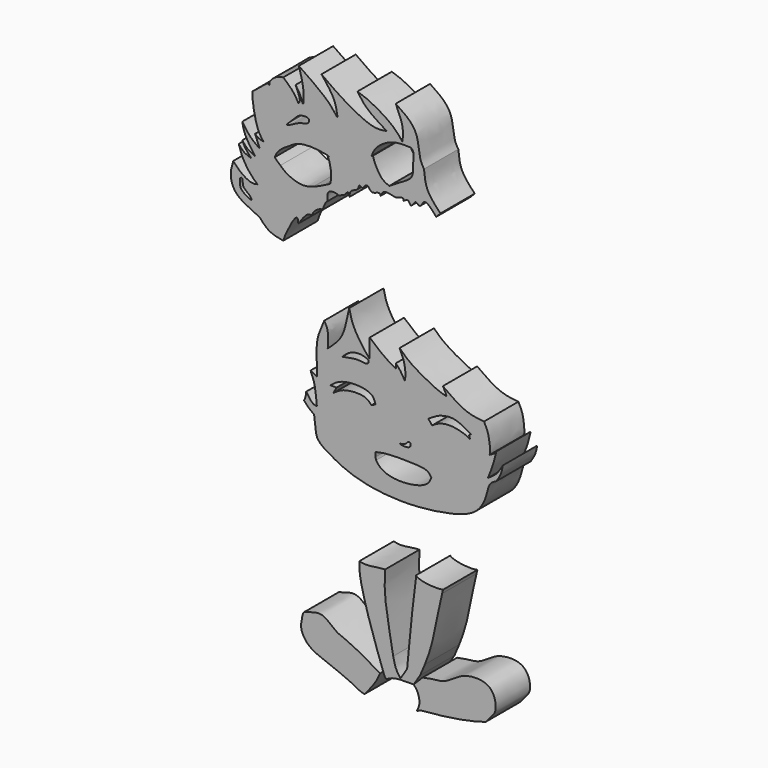
from build123d import *

# Parameters (mm, degrees)
F1_DEPTH = 8.636


with BuildPart() as f1:
    # F0 (on Front) → F1 (new body)
    with BuildSketch(Plane.XZ):
        with BuildLine():
            add(Edge.make_bspline(
                [(-18.4330398864, -7.1589284934), (-18.3447757655, -6.9759751124), (-18.1023853604, -6.4037237485), (-18.0444646272, -5.8298438117), (-18.0050712079, -5.4395329207)],
                knots=[0.2964626581, 0.2964626581, 0.2964626581, 0.2964626581, 0.5215056858, 1, 1, 1, 1], degree=3))
            add(Edge.make_bspline(
                [(-18.4330398864, -7.1589284934), (-18.1841600267, -7.4510223109), (-17.6552826772, -8.0759320914), (-16.8501844888, -8.6759563293), (-16.420789063, -8.9964652434)],
                knots=[0, 0, 0, 0, 0.4663036546, 1, 1, 1, 1], degree=3))
            add(Edge.make_bspline(
                [(-16.420789063, -8.9964652434), (-16.3187006772, -9.6921039668), (-16.1192058915, -11.0514779745), (-16.0141444379, -13.1041762653), (-14.8609629348, -13.9700183495), (-14.2729077488, -14.4115472212)],
                knots=[0, 0, 0, 0, 0.3393295034, 0.6630966498, 1, 1, 1, 1], degree=3))
            add(Edge.make_bspline(
                [(-14.2729077488, -14.4115472212), (-13.0963803768, -15.1027303133), (-11.9198530048, -15.7939134054), (-10.5908111519, -16.3956737654)],
                knots=[0, 0, 0, 0, 0.1082167815, 0.1082167815, 0.1082167815, 0.1082167815], degree=3))
            add(Edge.make_bspline(
                [(-10.5908111519, -16.3956737654), (-10.0073780041, -16.6598392168), (-7.6050352071, -17.6278445774), (-4.5527555949, -18.2147771024), (-2.2045963799, -18.4394805093)],
                knots=[0.1082167815, 0.1082167815, 0.1082167815, 0.1082167815, 0.1557226275, 0.2944452567, 0.2944452567, 0.2944452567, 0.2944452567], degree=3))
            add(Edge.make_bspline(
                [(-2.2045963799, -18.4394805093), (-1.3019078322, -18.5258618716), (0.9869008546, -18.6635786174), (3.2427891616, -18.6038563423), (4.5732665872, -18.5092306772)],
                knots=[0.2944452567, 0.2944452567, 0.2944452567, 0.2944452567, 0.3477735522, 0.4280323338, 0.4280323338, 0.4280323338, 0.4280323338], degree=3))
            add(Edge.make_bspline(
                [(4.5732665872, -18.5092306772), (4.6281273835, -18.5053288904), (4.682945921, -18.5013272237), (4.7377212904, -18.4972265552)],
                knots=[0.4280323338, 0.4280323338, 0.4280323338, 0.4280323338, 0.4313417177, 0.4313417177, 0.4313417177, 0.4313417177], degree=3))
            add(Edge.make_bspline(
                [(4.7377212904, -18.4972265552), (6.5623558523, -18.3606282695), (9.7582413002, -17.9173201875), (12.6903836285, -17.2235688297), (13.8276492638, -16.7859301138)],
                knots=[0.4313417177, 0.4313417177, 0.4313417177, 0.4313417177, 0.5415813461, 0.6296343765, 0.6296343765, 0.6296343765, 0.6296343765], degree=3))
            add(Edge.make_bspline(
                [(13.8276492638, -16.7859301138), (14.7898991916, -16.4156403506), (17.0891542402, -15.1546132726), (18.4126125947, -11.8249988228), (18.731444639, -9.6352540793), (19.7651718001, -9.1076622689), (20.2455148101, -8.8625056669)],
                knots=[0.6296343765, 0.6296343765, 0.6296343765, 0.6296343765, 0.7041367791, 0.8325264109, 0.9221798837, 1, 1, 1, 1], degree=3))
            add(Edge.make_bspline(
                [(20.2455148101, -8.8625056669), (20.5707524824, -8.3797265979), (21.224439266, -7.409401437), (21.4338524446, -6.2409220409), (21.5390734375, -5.6538120843)],
                knots=[0, 0, 0, 0, 0.4975435951, 1, 1, 1, 1], degree=3))
            add(Edge.make_bspline(
                [(18.5442902148, -8.8625056669), (19.1478463262, -8.4617461117), (20.3724621261, -7.6486046753), (21.1465151236, -6.3250488608), (21.5390734375, -5.6538120843)],
                knots=[0, 0, 0, 0, 0.4928534414, 1, 1, 1, 1], degree=3))
            add(Edge.make_bspline(
                [(20.2455148101, -3.5931265447), (20.0773123663, -4.3287265851), (19.712977018, -5.9220749981), (18.9532659882, -7.8335174867), (18.5442902148, -8.8625056669)],
                knots=[0, 0, 0, 0, 0.4616692962, 1, 1, 1, 1], degree=3))
            add(Edge.make_bspline(
                [(20.2455148101, -3.5931265447), (20.0121775324, -4.05283358), (19.4500589458, -4.3458940099), (18.8879403592, -4.6389544397)],
                knots=[0.4998641853, 0.4998641853, 0.4998641853, 0.4998641853, 1, 1, 1, 1], degree=3))
            Line((18.8879403592, -4.6389544397), (18.8843956508, -4.6411745258))
            add(Edge.make_bspline(
                [(17.764126882, 0.8990443312), (18.0813559885, 0.3023998655), (18.7704372558, -0.9936240998), (19.0452295332, -3.9517865462), (18.9189965282, -4.5276502492), (18.8843956508, -4.6411745258)],
                knots=[0, 0, 0, 0, 0.3707934573, 0.8054331089, 0.9380549572, 0.9380549572, 0.9380549572, 0.9380549572], degree=3))
            add(Edge.make_bspline(
                [(9.4706760719, 4.4652256183), (10.0343443338, 4.051640707), (11.305647942, 3.1188367413), (14.3873166326, 1.2226289698), (16.6467019141, 1.0061221732), (17.764126882, 0.8990443312)],
                knots=[0, 0, 0, 0, 0.2870388331, 0.6473905466, 1, 1, 1, 1], degree=3))
            add(Edge.make_bspline(
                [(9.4706760719, 4.4652256183), (9.7976174178, 4.0288565413), (10.0157268332, 3.4584419435), (10.2338362485, 2.8880273458)],
                knots=[0.4755673873, 0.4755673873, 0.4755673873, 0.4755673873, 1, 1, 1, 1], degree=3))
            add(Edge.make_bspline(
                [(0.7706487086, 8.3827814087), (1.4259010838, 7.7394897403), (2.9808799505, 6.2128948168), (8.2537663963, 3.3848211667), (9.7029290704, 3.0212304271), (10.2338362485, 2.8880273458)],
                knots=[0, 0, 0, 0, 0.3157579297, 0.7493248804, 1, 1, 1, 1], degree=3))
            add(Edge.make_bspline(
                [(0.7706487086, 8.3827814087), (1.046336286, 7.8160728257), (1.6141491875, 6.6488659174), (2.0410112224, 4.4780649121), (1.9027120641, 3.3891148912), (1.8390727928, 2.8880273458)],
                knots=[0, 0, 0, 0, 0.3375143575, 0.6951528554, 1, 1, 1, 1], degree=3))
            add(Edge.make_bspline(
                [(0, 5.4318951443), (0.2954681031, 5.1367856095), (0.9431074393, 4.4899322225), (1.5234797864, 3.4522790482), (1.8390727928, 2.8880273458)],
                knots=[0, 0, 0, 0, 0.4562232196, 1, 1, 1, 1], degree=3))
            add(Edge.make_bspline(
                [(0, 5.4318951443), (0.1058486689, 5.145685687), (0.0529243345, 4.8054556527), (0, 4.4652256183)],
                knots=[0.5048603434, 0.5048603434, 0.5048603434, 0.5048603434, 1, 1, 1, 1], degree=3))
            add(Edge.make_bspline(
                [(-5.232878495, 8.2973521203), (-4.3802456485, 7.5448368917), (-2.7065009352, 6.0676261666), (-0.8907686531, 4.9926106857), (0, 4.4652256183)],
                knots=[0, 0, 0, 0, 0.5094163045, 1, 1, 1, 1], degree=3))
            add(Edge.make_bspline(
                [(-5.232878495, 8.2973521203), (-5.232878495, 7.0199766196), (-5.232878495, 5.742601119), (-5.232878495, 4.4652256183)],
                knots=[0, 0, 0, 0, 3.8321265019, 3.8321265019, 3.8321265019, 3.8321265019], degree=3))
            add(Edge.make_bspline(
                [(-9.3559222296, 12.1640302241), (-9.1415522268, 11.183021882), (-8.6885213887, 9.1098445463), (-6.4131342354, 5.8472901656), (-5.5715020805, 4.8617495549), (-5.232878495, 4.4652256183)],
                knots=[0, 0, 0, 0, 0.3493094953, 0.7382001739, 1, 1, 1, 1], degree=3))
            add(Edge.make_bspline(
                [(-9.3559222296, 12.1640302241), (-9.545618552, 11.2439649612), (-9.9359418079, 9.3508187766), (-10.8175540538, 6.1497408327), (-12.7002842733, 4.4839188488), (-13.6804971844, 3.6166356876)],
                knots=[0, 0, 0, 0, 0.3118868084, 0.6417450425, 1, 1, 1, 1], degree=3))
            add(Edge.make_bspline(
                [(-14.39278014, 8.2973521203), (-14.1295459057, 7.8796531901), (-13.487271247, 6.8604945747), (-13.6087852881, 4.8205282663), (-13.6804971844, 3.6166356876)],
                knots=[0, 0, 0, 0, 0.4098468324, 1, 1, 1, 1], degree=3))
            add(Edge.make_bspline(
                [(-14.39278014, 8.2973521203), (-14.6711141427, 7.6682392119), (-15.2639142795, 6.3283446443), (-16.074859645, 3.80515167), (-15.8293485486, 0.0230459236), (-15.8566308085, -1.4368247328), (-15.8682223409, -2.0570863275)],
                knots=[0, 0, 0, 0, 0.2241880166, 0.4774791641, 0.7779943001, 1, 1, 1, 1], degree=3))
            add(Edge.make_bspline(
                [(-17.1401575208, -1.4202223392), (-16.7161791275, -1.6325103353), (-16.2922007342, -1.8447983314), (-15.8682223409, -2.0570863275)],
                knots=[0, 0, 0, 0, 1.42246787, 1.42246787, 1.42246787, 1.42246787], degree=3))
            add(Edge.make_bspline(
                [(-17.1401575208, -1.4202223392), (-16.8586679279, -2.0570863275), (-16.2066038698, -3.5323668604), (-15.9908419678, -5.9487440933), (-15.8682223409, -7.3219952174)],
                knots=[0, 0, 0, 0, 0.4316900915, 1, 1, 1, 1], degree=3))
            add(Edge.make_bspline(
                [(-18.0050712079, -5.4395329207), (-17.5358533235, -6.1386457618), (-16.7835088517, -7.2596040599), (-16.1184871301, -7.3049357396), (-15.8682223409, -7.3219952174)],
                knots=[0, 0, 0, 0, 0.6236742635, 1, 1, 1, 1], degree=3))
        make_face()
        with BuildLine():
            Line((-11.9033038869, -2.7368646115), (-13.1420567632, -2.7368646115))
            add(Edge.make_bspline(
                [(-13.1420567632, -2.7368646115), (-12.5702592869, -2.2616440846), (-11.2540416732, -1.1677364447), (-7.2536149387, -0.7599784637), (-4.4979536295, -1.5900657613), (-4.2090467195, -2.7151476621), (-4.0858881548, -3.1947605312)],
                knots=[0, 0, 0, 0, 0.24118308, 0.5551780677, 0.8103761842, 1, 1, 1, 1], degree=3))
            Line((-4.0858881548, -3.1947605312), (-4.899926018, -3.6017792299))
            add(Edge.make_bspline(
                [(-12.5315282494, -3.9070434868), (-11.9033038869, -3.4410703996), (-10.4812583274, -2.3862960241), (-6.0893563876, -2.1846491739), (-5.2338552315, -3.2039239733), (-4.899926018, -3.6017792299)],
                knots=[0, 0, 0, 0, 0.3254578724, 0.7367048303, 1, 1, 1, 1], degree=3))
            Line((-12.5315282494, -3.9070434868), (-11.9033038869, -2.7368646115))
        make_face(mode=Mode.SUBTRACT)
        with BuildLine():
            add(Edge.make_bspline(
                [(-10.7559990138, 3.1001628377), (-10.3593019709, 3.1560794666), (-9.4696864137, 3.2814756699), (-7.6619811728, 3.7517600431), (-5.6524071004, 3.1869879272), (-5.3134453705, 4.1999914397), (-5.7237460498, 4.3673032943), (-5.9226509184, 4.4484124519)],
                knots=[0, 0, 0, 0, 0.2068397339, 0.4638498028, 0.7146694591, 0.8616779436, 1, 1, 1, 1], degree=3))
            add(Edge.make_bspline(
                [(-10.7559990138, 3.1001628377), (-10.3044980963, 3.5359459066), (-9.392131369, 4.416550922), (-7.3696725363, 4.8774805902), (-6.3816343974, 4.5845093729), (-5.9226509184, 4.4484124519)],
                knots=[0, 0, 0, 0, 0.3440812606, 0.6952993481, 1, 1, 1, 1], degree=3))
        make_face(mode=Mode.SUBTRACT)
        with BuildLine():
            add(Edge.make_bspline(
                [(-4.0858881548, -11.5895234048), (-4.1060696555, -11.8845037813), (-4.1262511562, -12.1794841579), (-4.0858881548, -12.4757638488)],
                knots=[0, 0, 0, 0, 0.0916530083, 0.0916530083, 0.0916530083, 0.0916530083], degree=3))
            add(Edge.make_bspline(
                [(-4.0858881548, -11.5895234048), (-3.3781628092, -11.4286120689), (-1.6823748374, -11.0430507637), (2.7488868354, -11.1170576545), (5.8892871255, -11.2162336731), (6.5889554667, -11.7457057839), (6.68474054, -11.8380875792)],
                knots=[0, 0, 0, 0, 0.2311406086, 0.553838387, 0.8339957191, 0.8869285145, 0.8869285145, 0.8869285145, 0.8869285145], degree=3))
            add(Edge.make_bspline(
                [(6.68474054, -11.8380875792), (6.8893501861, -12.0354273712), (7.0236783638, -12.2703717733), (7.1580065414, -12.5053161755)],
                knots=[0.8869285145, 0.8869285145, 0.8869285145, 0.8869285145, 1, 1, 1, 1], degree=3))
            add(Edge.make_bspline(
                [(6.9665403188, -12.9535870845), (7.0358278571, -12.8059797145), (7.0969171993, -12.655647945), (7.1580065414, -12.5053161755)],
                knots=[0.9498150812, 0.9498150812, 0.9498150812, 0.9498150812, 1, 1, 1, 1], degree=3))
            add(Edge.make_bspline(
                [(-3.933256492, -13.0140893161), (-3.6299871589, -13.6816020951), (-1.7581083299, -15.2891896966), (3.4358052937, -15.2267788752), (6.2899284813, -14.1428552989), (6.8293391478, -13.2458749119), (6.9665403188, -12.9535870845)],
                knots=[0.1469866764, 0.1469866764, 0.1469866764, 0.1469866764, 0.352065497, 0.6332827206, 0.8504403623, 0.9498150812, 0.9498150812, 0.9498150812, 0.9498150812], degree=3))
            add(Edge.make_bspline(
                [(-4.0858881548, -12.4757638488), (-4.0615198012, -12.6546367781), (-4.0150835894, -12.8339832943), (-3.933256492, -13.0140893161)],
                knots=[0.0916530083, 0.0916530083, 0.0916530083, 0.0916530083, 0.1469866764, 0.1469866764, 0.1469866764, 0.1469866764], degree=3))
        make_face(mode=Mode.SUBTRACT)
        with BuildLine():
            add(Edge.make_bspline(
                [(0.8535532979, -8.5543373227), (0.8250785768, -8.4638055758), (2.1333939515, -8.379418986), (2.321706787, -7.6001280671), (3.0690326007, -7.5686537332), (3.0415733177, -8.9948874437), (0.8903769668, -8.6714134852), (0.8535532979, -8.5543373227)],
                knots=[0, 0, 0, 0, 0.2144360216, 0.3941398724, 0.5320641402, 0.7226901353, 1, 1, 1, 1], degree=3))
        make_face(mode=Mode.SUBTRACT)
        with BuildLine():
            Line((7.3106386699, -3.1947605312), (6.547477562, -2.2280910052))
            add(Edge.make_bspline(
                [(6.547477562, -2.2280910052), (7.1955297049, -1.8213002231), (8.3484812599, -1.0975774952), (9.6001927335, -0.7161177974), (11.9752591058, -0.3290183632), (14.0004816251, -1.542093543), (15.1457507163, -2.2280910052)],
                knots=[0, 0, 0, 0, 0.2428297132, 0.4320190875, 0.6788051795, 1, 1, 1, 1], degree=3))
            Line((15.1457507163, -2.2280910052), (14.7451404482, -2.4982849136))
            Line((14.7451404482, -2.4982849136), (14.9740884081, -3.1947605312))
            add(Edge.make_bspline(
                [(7.3106386699, -3.1947605312), (7.746110525, -2.9034915254), (8.7449084648, -2.2354371392), (11.3914677573, -1.8026629182), (14.4470899588, -2.742335846), (14.8501397521, -3.0883514294), (14.9740884081, -3.1947605312)],
                knots=[0, 0, 0, 0, 0.2335863432, 0.5357534719, 0.8572317015, 1, 1, 1, 1], degree=3))
        make_face(mode=Mode.SUBTRACT)
    extrude(amount=F1_DEPTH)


with BuildPart() as f1b:
    # F0 (on Front) → F1, piece 2 (new body)
    with BuildSketch(Plane.XZ):
        with BuildLine():
            add(Edge.make_bspline(
                [(-32.7052474022, 30.6194592267), (-32.9437435672, 29.796959276), (-33.4410033525, 28.0820631527), (-32.5416588893, 24.8873001119), (-29.1255932511, 23.2013356898), (-27.8898295194, 22.6308582522), (-27.3706596345, 22.3911888897)],
                knots=[0, 0, 0, 0, 0.2419037348, 0.5043645008, 0.7917732828, 1, 1, 1, 1], degree=3))
            add(Edge.make_bspline(
                [(-27.3706596345, 22.3911888897), (-26.7575944473, 21.6944745249), (-25.5144528092, 20.2817134435), (-23.5834678664, 19.9594976881), (-22.6047635078, 19.7961851954)],
                knots=[0, 0, 0, 0, 0.4931579544, 1, 1, 1, 1], degree=3))
            add(Edge.make_bspline(
                [(-22.6047635078, 19.7961851954), (-22.4382272456, 20.3439747181), (-22.0578617276, 21.5951151163), (-19.7761646606, 25.6953442767), (-19.6479114574, 24.2903518892), (-19.6032002568, 23.800548166)],
                knots=[0, 0, 0, 0, 0.3365689992, 0.7687169147, 1, 1, 1, 1], degree=3))
            add(Edge.make_bspline(
                [(-19.6032002568, 23.800548166), (-18.8877456516, 24.8315862122), (-17.8954817943, 26.2615326843), (-17.0748664805, 26.1642791676), (-16.8503796017, 26.0976623628)],
                knots=[0, 0, 0, 0, 0.6331543829, 0.8781216944, 0.8781216944, 0.8781216944, 0.8781216944], degree=3))
            Line((-16.8503796017, 26.0976623628), (-16.8503796017, 26.1078629228))
            add(Edge.make_bspline(
                [(-14.7267151624, 27.7985651046), (-14.9838982099, 28.043324273), (-16.5164380176, 27.1374249317), (-16.746274376, 26.4288256014), (-16.8503796017, 26.1078629228)],
                knots=[0.6486517808, 0.6486517808, 0.6486517808, 0.6486517808, 0.840855529, 1, 1, 1, 1], degree=3))
            add(Edge.make_bspline(
                [(-13.7615559241, 29.634764418), (-14.1033451356, 29.5428302764), (-14.415030149, 28.6706976905), (-14.7267151624, 27.7985651046)],
                knots=[0.80203745, 0.80203745, 0.80203745, 0.80203745, 1, 1, 1, 1], degree=3))
            add(Edge.make_bspline(
                [(-11.442072929, 31.4394749151), (-11.9715820585, 31.7062565928), (-13.8529844898, 31.90931208), (-13.7941079316, 30.4445889185), (-13.7615559241, 29.634764418)],
                knots=[0.6642981839, 0.6642981839, 0.6642981839, 0.6642981839, 0.8143952641, 1, 1, 1, 1], degree=3))
            Line((-11.442072929, 31.4394749151), (-10.4278187127, 31.8416898105))
            Line((-10.4278187127, 31.8416898105), (-9.6154231578, 32.6536148787))
            Line((-9.6154231578, 32.6536148787), (-9.2731625773, 31.8953618407))
            add(Edge.make_bspline(
                [(-9.2731625773, 31.8953618407), (-9.2707773222, 32.3305626831), (-9.2656749472, 33.2615146554), (-7.4052768294, 33.5223676125), (-7.5024119976, 34.7654217232), (-6.9216652211, 34.457884325), (-6.6730589208, 34.2359130844)],
                knots=[0, 0, 0, 0, 0.1376872521, 0.2945311829, 0.4080807921, 0.4946014193, 0.4946014193, 0.4946014193, 0.4946014193], degree=3))
            add(Edge.make_bspline(
                [(-3.0237854281, 34.1091325558), (-3.0833782998, 34.3169965622), (-3.3880762258, 34.7880337699), (-4.9399989149, 33.6075278354), (-5.6711981945, 35.5988543848), (-6.339931794, 34.6891217745), (-6.6730589208, 34.2359130844)],
                knots=[0.5698102075, 0.5698102075, 0.5698102075, 0.5698102075, 0.6267960603, 0.7580479168, 0.8795187699, 1, 1, 1, 1], degree=3))
            add(Edge.make_bspline(
                [(-3.0237854281, 34.1091325558), (-2.8605049358, 34.5047356016), (-2.4867903229, 35.4110204781), (-0.9424695462, 34.9767185739), (-0.1280658918, 34.8201655375), (0, 34.7914071205)],
                knots=[0, 0, 0, 0, 0.1286180339, 0.2945515931, 0.3297719384, 0.3297719384, 0.3297719384, 0.3297719384], degree=3))
            add(Edge.make_bspline(
                [(1.5734132775, 34.7069428762), (1.5729585439, 34.8669602376), (1.5701850288, 35.41126972), (0.6650982577, 35.0539682375), (0, 34.7914071205)],
                knots=[0.7751394027, 0.7751394027, 0.7751394027, 0.7751394027, 0.8347623717, 1, 1, 1, 1], degree=3))
            add(Edge.make_bspline(
                [(1.5734132775, 34.7069428762), (1.9403689396, 34.9519525008), (2.6310672862, 35.4133129969), (2.939391131, 33.959456186), (3.5517581518, 34.7471280498), (3.8958386127, 35.2198470936)],
                knots=[0, 0, 0, 0, 0.3291534336, 0.6198053243, 0.9684432239, 0.9684432239, 0.9684432239, 0.9684432239], degree=3))
            add(Edge.make_bspline(
                [(3.8958386127, 35.2198470936), (3.9137519726, 35.3004503454), (3.941505609, 35.3480971277), (3.989437595, 35.3489182889)],
                knots=[0.5711886312, 0.5711886312, 0.5711886312, 0.5711886312, 0.6017339028, 0.6017339028, 0.6017339028, 0.6017339028], degree=3))
            add(Edge.make_bspline(
                [(3.989437595, 35.3489182889), (4.1457844496, 35.3515967923), (4.9635659438, 34.2594291564), (5.6929743724, 36.8403270348), (7.2194293889, 35.0723784968), (8.1328125671, 34.014493227)],
                knots=[0.6017339028, 0.6017339028, 0.6017339028, 0.6017339028, 0.7013679373, 0.8213313102, 1, 1, 1, 1], degree=3))
            add(Edge.make_bspline(
                [(8.9884642512, 34.9012799561), (8.7032470231, 34.6056843797), (8.4180297951, 34.3100888034), (8.1328125671, 34.014493227)],
                knots=[0, 0, 0, 0, 1.2322866985, 1.2322866985, 1.2322866985, 1.2322866985], degree=3))
            add(Edge.make_bspline(
                [(5.6838947348, 41.6932143271), (5.7986336322, 40.4912847887), (6.0373925821, 37.9902024101), (7.9796074516, 35.9572625856), (8.9884642512, 34.9012799561)],
                knots=[0, 0, 0, 0, 0.4805637546, 1, 1, 1, 1], degree=3))
            add(Edge.make_bspline(
                [(0, 51.4153204858), (1.5804201554, 50.373322382), (4.6206334438, 48.3688576382), (4.6552802232, 43.3255094511), (5.3974043392, 42.147842247), (5.6838947348, 41.6932143271)],
                knots=[0, 0, 0, 0, 0.3992883345, 0.7681006196, 1, 1, 1, 1], degree=3))
            add(Edge.make_bspline(
                [(0, 51.4153204858), (0.5726647886, 50.1685356769), (1.6228893961, 47.8820251166), (1.435263626, 45.9628050413), (1.3499461347, 45.0900942087)],
                knots=[0, 0, 0, 0, 0.5452783952, 1, 1, 1, 1], degree=3))
            add(Edge.make_bspline(
                [(-7.7065564692, 51.0639846325), (-6.9251789105, 50.816180507), (-5.06454446, 50.2261035489), (-0.4902654686, 47.4885830822), (0.796369865, 45.8116126043), (1.3499461347, 45.0900942087)],
                knots=[0, 0, 0, 0, 0.2920333249, 0.6953965581, 1, 1, 1, 1], degree=3))
            add(Edge.make_bspline(
                [(-7.7065564692, 51.0639846325), (-7.1714814729, 50.2890985738), (-5.9479153592, 48.5171519684), (-3.2849132595, 46.8825710093), (-1.7864627298, 45.9628050413)],
                knots=[0, 0, 0, 0, 0.4373077927, 1, 1, 1, 1], degree=3))
            add(Edge.make_bspline(
                [(-1.7864627298, 45.9628050413), (-2.676068489, 45.812503318), (-4.9571601974, 45.4271056163), (-11.4748719562, 49.2262934696), (-13.8936209007, 50.9901380339), (-14.9499652907, 51.7604649067)],
                knots=[0, 0, 0, 0, 0.2647648446, 0.678899485, 1, 1, 1, 1], degree=3))
            add(Edge.make_bspline(
                [(-11.676502414, 45.0900942087), (-11.8286956037, 46.1054911744), (-12.1610500276, 48.3228812852), (-13.9695963827, 50.5520739076), (-14.9499652907, 51.7604649067)],
                knots=[0, 0, 0, 0, 0.4579243683, 1, 1, 1, 1], degree=3))
            add(Edge.make_bspline(
                [(-11.676502414, 45.0900942087), (-12.3272984352, 45.938331185), (-13.8935534125, 47.9797625136), (-17.4332069695, 50.3658328261), (-19.5020958781, 51.7604649067)],
                knots=[0, 0, 0, 0, 0.4155109037, 1, 1, 1, 1], degree=3))
            add(Edge.make_bspline(
                [(-18.6156202108, 45.0900942087), (-18.552181083, 46.0884137945), (-18.4185841194, 48.19078295), (-19.1290158803, 50.531334788), (-19.5020958781, 51.7604649067)],
                knots=[0, 0, 0, 0, 0.4748545626, 1, 1, 1, 1], degree=3))
            add(Edge.make_bspline(
                [(-20.1423279941, 48.1867939234), (-19.846601162, 47.7656778286), (-19.2259666987, 46.8818920739), (-18.8253477658, 45.7057926566), (-18.6156202108, 45.0900942087)],
                knots=[0, 0, 0, 0, 0.4764911547, 1, 1, 1, 1], degree=3))
            add(Edge.make_bspline(
                [(-20.1423279941, 48.1867939234), (-19.7161752789, 47.2203695897), (-19.0755673004, 45.7676060226), (-19.4320163596, 45.2600184521), (-19.5513442159, 45.0900942087)],
                knots=[0, 0, 0, 0, 0.6652316699, 1, 1, 1, 1], degree=3))
            add(Edge.make_bspline(
                [(-22.6047635078, 48.7285293639), (-21.9535734983, 48.1561780987), (-20.6918068333, 47.0471719154), (-19.9232524247, 45.7283029964), (-19.5513442159, 45.0900942087)],
                knots=[0, 0, 0, 0, 0.5160938449, 1, 1, 1, 1], degree=3))
            add(Edge.make_bspline(
                [(-25.3893850686, 47.0418099407), (-25.0557285674, 47.4620146531), (-24.369423664, 48.3263423478), (-23.2037361287, 48.592016387), (-22.6047635078, 48.7285293639)],
                knots=[0, 0, 0, 0, 0.4861636565, 1, 1, 1, 1], degree=3))
            add(Edge.make_bspline(
                [(-25.3893850686, 47.0418099407), (-25.3910662195, 46.8299803696), (-25.3927473705, 46.6181507986), (-25.3944285214, 46.4063212276)],
                knots=[3.1763469738, 3.1763469738, 3.1763469738, 3.1763469738, 3.8118556999, 3.8118556999, 3.8118556999, 3.8118556999], degree=3))
            add(Edge.make_bspline(
                [(-25.7654880348, 46.6878892833), (-25.6418573992, 46.5948703899), (-25.5181429603, 46.5005958087), (-25.3944285214, 46.4063212276)],
                knots=[0.8736067053, 0.8736067053, 0.8736067053, 0.8736067053, 1, 1, 1, 1], degree=3))
            add(Edge.make_bspline(
                [(-28.785231577, 44.2480828226), (-28.3007455834, 44.6643673814), (-27.3248327433, 45.4995741158), (-26.2851582749, 46.2938266438), (-25.7654880348, 46.6878892833)],
                knots=[0, 0, 0, 0, 0.4975526792, 1, 1, 1, 1], degree=3))
            add(Edge.make_bspline(
                [(-28.785231577, 44.2480828226), (-28.8010731442, 44.1099001136), (-28.8583147087, 43.5927752627), (-28.8799281438, 43.1048464989), (-28.1028707183, 37.9362905737), (-27.0409268142, 36.6074385256), (-26.6005732119, 36.056406796)],
                knots=[0.2635556696, 0.2635556696, 0.2635556696, 0.2635556696, 0.3054515071, 0.4415873913, 0.768444451, 1, 1, 1, 1], degree=3))
            add(Edge.make_bspline(
                [(-28.2986070961, 36.869276315), (-28.0250817867, 36.6377954889), (-27.498889244, 36.1924857486), (-26.8919928403, 36.1005517031), (-26.6005732119, 36.056406796)],
                knots=[0, 0, 0, 0, 0.5198198135, 1, 1, 1, 1], degree=3))
            add(Edge.make_bspline(
                [(-28.2986070961, 36.869276315), (-28.1510459743, 36.4654437054), (-27.8600477459, 35.6690647367), (-27.5322404477, 34.9255216982), (-27.3706596345, 34.5590189099)],
                knots=[0, 0, 0, 0, 0.5070859798, 1, 1, 1, 1], degree=3))
            add(Edge.make_bspline(
                [(-30.8788307011, 38.1955392659), (-30.3680718909, 37.4348321133), (-29.3740457098, 35.9543626417), (-28.0260277705, 35.0154780178), (-27.3706596345, 34.5590189099)],
                knots=[0, 0, 0, 0, 0.5138283276, 1, 1, 1, 1], degree=3))
            add(Edge.make_bspline(
                [(-30.8788307011, 38.1955392659), (-30.7473282643, 37.5029628033), (-30.446143608, 35.9167305715), (-29.0724962365, 34.0084001712), (-28.2986070961, 32.9332798719)],
                knots=[0, 0, 0, 0, 0.4366173179, 1, 1, 1, 1], degree=3))
            add(Edge.make_bspline(
                [(-30.8788307011, 34.9012799561), (-30.5367277234, 34.4660048105), (-29.8501341697, 33.5924166559), (-28.8169803693, 33.1535009032), (-28.2986070961, 32.9332798719)],
                knots=[0, 0, 0, 0, 0.4982612725, 1, 1, 1, 1], degree=3))
            add(Edge.make_bspline(
                [(-30.8788307011, 34.9012799561), (-30.7000381504, 34.5018341672), (-30.3149995983, 33.6416080136), (-29.5265725628, 32.7833555476), (-29.1042514145, 32.3236323893)],
                knots=[0, 0, 0, 0, 0.4643497379, 1, 1, 1, 1], degree=3))
            add(Edge.make_bspline(
                [(-31.5865762532, 34.014493227), (-31.2663458774, 33.6142988988), (-30.6206414801, 32.8073572185), (-29.6124438983, 32.4857445846), (-29.1042514145, 32.3236323893)],
                knots=[0, 0, 0, 0, 0.4959395926, 1, 1, 1, 1], degree=3))
            add(Edge.make_bspline(
                [(-31.5865762532, 34.014493227), (-31.3900278981, 33.3686911533), (-30.9715934647, 31.9938344432), (-29.5440623109, 29.6930906124), (-28.3999101563, 28.6047558718), (-27.8464587868, 28.0783046037)],
                knots=[0, 0, 0, 0, 0.313810362, 0.6680750953, 1, 1, 1, 1], degree=3))
            add(Edge.make_bspline(
                [(-32.7052474022, 30.6194592267), (-32.2776458268, 30.1586591256), (-31.3743159383, 29.1851956776), (-29.1736478235, 27.7898662152), (-28.2364976951, 27.9935373316), (-27.8464587868, 28.0783046037)],
                knots=[0, 0, 0, 0, 0.3441518182, 0.7270380688, 1, 1, 1, 1], degree=3))
        make_face()
        with BuildLine():
            add(Edge.make_bspline(
                [(-30.9691801667, 28.1913466752), (-31.0596335166, 28.2287567363), (-31.4224907588, 28.0658899797), (-31.3348868344, 27.3291284115), (-31.3490115395, 26.544186973), (-30.765920429, 25.7211426961), (-29.4595970676, 25.0275620323), (-28.9339047763, 24.8272576548), (-29.1851003223, 25.4931053323), (-29.6998457123, 25.8287360947), (-30.4821122699, 26.5119932312), (-30.7340421742, 26.8791427972), (-30.8095390891, 27.7267060225), (-30.866839494, 28.1490202071), (-30.9691801667, 28.1913466752)],
                knots=[0, 0, 0, 0, 0.0600638624, 0.1437589685, 0.2326091171, 0.3325230592, 0.4579661665, 0.5157063583, 0.5851645045, 0.6694012178, 0.7703468146, 0.8381523549, 0.9320425823, 1, 1, 1, 1], degree=3))
        make_face(mode=Mode.SUBTRACT)
        with BuildLine():
            add(Edge.make_bspline(
                [(-13.7934880331, 37.83063218), (-14.5484296548, 37.9800617601), (-16.1601618865, 38.2990804281), (-19.4627199733, 38.2116059816), (-21.1656799412, 37.1310553963), (-23.7174793486, 35.5508348823), (-24.1530308665, 34.4735068647), (-24.3386048824, 34.014493227)],
                knots=[0, 0, 0, 0, 0.2020191586, 0.4312926721, 0.618258502, 0.837352644, 1, 1, 1, 1], degree=3))
            add(Edge.make_bspline(
                [(-13.7934880331, 37.83063218), (-13.670796218, 37.7543158829), (-13.5481044029, 37.6779995859), (-13.4254125878, 37.6016832888)],
                knots=[0, 0, 0, 0, 0.4334710235, 0.4334710235, 0.4334710235, 0.4334710235], degree=3))
            add(Edge.make_bspline(
                [(-13.7255053033, 37.562127131), (-13.6159985077, 37.5750348116), (-13.5207055477, 37.5883590502), (-13.4254125878, 37.6016832888)],
                knots=[0.9514666544, 0.9514666544, 0.9514666544, 0.9514666544, 1, 1, 1, 1], degree=3))
            add(Edge.make_bspline(
                [(-13.1776742637, 32.9332798719), (-13.0771119235, 33.3993944543), (-12.8684747615, 34.3664549122), (-13.1686316541, 36.0271362473), (-13.365488453, 37.0466151843), (-13.6169579097, 37.4061635666), (-13.7255053033, 37.562127131)],
                knots=[0, 0, 0, 0, 0.2819086257, 0.5850503726, 0.820766888, 1, 1, 1, 1], degree=3))
            add(Edge.make_bspline(
                [(-14.3260592475, 32.3392523369), (-13.9460444572, 32.5319339006), (-13.5618593605, 32.7326068863), (-13.1776742637, 32.9332798719)],
                knots=[0.916349636, 0.916349636, 0.916349636, 0.916349636, 1, 1, 1, 1], degree=3))
            add(Edge.make_bspline(
                [(-16.5877254898, 31.3190848318), (-15.8759762794, 31.5783900494), (-15.1098889228, 31.9418216806), (-14.3260592475, 32.3392523369)],
                knots=[0.7438099367, 0.7438099367, 0.7438099367, 0.7438099367, 0.916349636, 0.916349636, 0.916349636, 0.916349636], degree=3))
            add(Edge.make_bspline(
                [(-23.2037361287, 32.9332798719), (-22.8963180297, 32.6418985237), (-22.1898936882, 31.9723254643), (-20.0262829153, 30.9717587432), (-18.2369586001, 30.7959087172), (-16.9321090685, 31.1936186458), (-16.5877254898, 31.3190848318)],
                knots=[0, 0, 0, 0, 0.1807542836, 0.4153601437, 0.6603257007, 0.7438099367, 0.7438099367, 0.7438099367, 0.7438099367], degree=3))
            add(Edge.make_bspline(
                [(-24.3386048824, 34.014493227), (-24.111428749, 33.7675824047), (-23.7015745638, 33.3221243699), (-23.3572200234, 33.053160869), (-23.2037361287, 32.9332798719)],
                knots=[0, 0, 0, 0, 0.5542852593, 1, 1, 1, 1], degree=3))
        make_face(mode=Mode.SUBTRACT)
        with BuildLine():
            add(Edge.make_bspline(
                [(-21.8587424606, 40.5759736896), (-21.9293402695, 40.7038587526), (-20.3192223413, 42.1317348946), (-19.5849951804, 43.1035478946), (-17.8051349022, 43.346918), (-17.2605613044, 42.778529332), (-17.7401009921, 41.9617048776), (-19.318767036, 41.828603421), (-20.2938097799, 41.1841303084), (-21.7977664656, 40.4655181514), (-21.8587424606, 40.5759736896)],
                knots=[0, 0, 0, 0, 0.1530035736, 0.2889238079, 0.4260699511, 0.5093259933, 0.6024382668, 0.7349028971, 0.8678493668, 1, 1, 1, 1], degree=3))
        make_face(mode=Mode.SUBTRACT)
        with BuildLine():
            add(Edge.make_bspline(
                [(-4.858314991, 40.564250201), (-4.7662430879, 40.6130830066), (-4.6741711848, 40.6619158122), (-4.5821939697, 40.7110644641)],
                knots=[0, 0, 0, 0, 0.0451862327, 0.0451862327, 0.0451862327, 0.0451862327], degree=3))
            add(Edge.make_bspline(
                [(-4.858314991, 40.564250201), (-4.6477667591, 41.1222612596), (-4.1427588171, 42.4606720064), (-0.8165824894, 44.7718928934), (1.7419801523, 44.6694876302), (3.0284915119, 44.6179956198)],
                knots=[0, 0, 0, 0, 0.2622624765, 0.6290465244, 1, 1, 1, 1], degree=3))
            add(Edge.make_bspline(
                [(3.0284915119, 44.6179956198), (3.2108110328, 44.4791564886), (3.7114422176, 44.0979181087), (3.5768028261, 42.7514452503), (3.4911963157, 41.8953299522)],
                knots=[0, 0, 0, 0, 0.3641793128, 1, 1, 1, 1], degree=3))
            add(Edge.make_bspline(
                [(3.4911963157, 41.8953299522), (3.5140550279, 41.4541671197), (3.5602764514, 40.5621144998), (3.1814550729, 39.0687770569), (1.9908603194, 38.4065457913), (1.2580434285, 37.9759846176), (1.2117554688, 37.9487096136)],
                knots=[0, 0, 0, 0, 0.2082274369, 0.4210459653, 0.6811504211, 0.6985984836, 0.6985984836, 0.6985984836, 0.6985984836], degree=3))
            add(Edge.make_bspline(
                [(1.2117554688, 37.9487096136), (0.6172899966, 37.5984230986), (-0.0134872997, 37.2137959722), (-0.6535798595, 36.8203592678)],
                knots=[0.6985984836, 0.6985984836, 0.6985984836, 0.6985984836, 0.9226798809, 0.9226798809, 0.9226798809, 0.9226798809], degree=3))
            add(Edge.make_bspline(
                [(-0.6535798595, 36.8203592678), (-0.8744461768, 36.6846024704), (-1.0964215886, 36.5477967864), (-1.3183970004, 36.4109911025)],
                knots=[0.9226798809, 0.9226798809, 0.9226798809, 0.9226798809, 1, 1, 1, 1], degree=3))
            add(Edge.make_bspline(
                [(-4.5821939697, 40.7110644641), (-4.506634873, 40.4195509733), (-4.3139695955, 39.6689947288), (-3.0771958623, 37.1898008152), (-1.8709145031, 36.6557699769), (-1.3183970004, 36.4109911025)],
                knots=[0, 0, 0, 0, 0.2545050679, 0.6590162156, 1, 1, 1, 1], degree=3))
        make_face(mode=Mode.SUBTRACT)
    extrude(amount=F1_DEPTH)


with BuildPart() as f1c:
    # F0 (on Front) → F1, piece 3 (new body)
    with BuildSketch(Plane.XZ):
        with BuildLine():
            add(Edge.make_bspline(
                [(9.5219962154, -31.5644456762), (9.4611386973, -31.8123534813), (9.4002921034, -32.0602848415), (9.3393335359, -32.3106409743)],
                knots=[0, 0, 0, 0, 0.0560073572, 0.0560073572, 0.0560073572, 0.0560073572], degree=3))
            add(Edge.make_bspline(
                [(4.0371152572, -30.8240728969), (4.2589618279, -30.9802818339), (5.1811653861, -31.5199314213), (8.0797833825, -31.7977979949), (9.3025548706, -31.6116050516), (9.5219962154, -31.5644456762)],
                knots=[0.0837609161, 0.0837609161, 0.0837609161, 0.0837609161, 0.2597027552, 0.7013911773, 0.8114710435, 0.8114710435, 0.8114710435, 0.8114710435], degree=3))
            Line((4.0371152572, -30.8240728969), (4.0371152572, -30.8283232152))
            add(Edge.make_bspline(
                [(4.0371152572, -30.8283232152), (4.0498449975, -31.0367026744), (4.0973883752, -31.822476947), (3.2058039921, -37.8111831479), (2.6809233611, -43.5650242157), (2.4071369795, -46.6789720867)],
                knots=[0, 0, 0, 0, 0.1368819039, 0.5084777049, 0.9418583296, 0.9418583296, 0.9418583296, 0.9418583296], degree=3))
            add(Edge.make_bspline(
                [(2.4071369795, -46.6789720867), (2.3704062245, -47.0967344884), (2.3338338052, -47.5147887066), (2.2972750012, -47.932729125)],
                knots=[0.9418583296, 0.9418583296, 0.9418583296, 0.9418583296, 1, 1, 1, 1], degree=3))
            add(Edge.make_bspline(
                [(2.2972750012, -47.932729125), (1.8509512884, -48.6457372705), (1.4046275755, -49.358745416), (0.9583038627, -50.0717535615)],
                knots=[0, 0, 0, 0, 2.5235429954, 2.5235429954, 2.5235429954, 2.5235429954], degree=3))
            add(Edge.make_bspline(
                [(0.9583038627, -50.0717535615), (0.9583038627, -50.1517121865), (0.9583038627, -50.2316708115), (0.9583038627, -50.3116294365)],
                knots=[0, 0, 0, 0, 0.239875875, 0.239875875, 0.239875875, 0.239875875], degree=3))
            add(Edge.make_bspline(
                [(0.9583038627, -50.3116294365), (1.5250208805, -50.2754130186), (2.7067786536, -50.2723478277), (3.2914004827, -50.2730060329), (3.601440927, -50.2733550966)],
                knots=[0.5305586745, 0.5305586745, 0.5305586745, 0.5305586745, 0.7510428282, 1, 1, 1, 1], degree=3))
            add(Edge.make_bspline(
                [(4.9091726542, -48.2262298465), (4.4732620784, -48.9086049298), (4.0373515027, -49.5909800132), (3.601440927, -50.2733550966)],
                knots=[0, 0, 0, 0, 2.4291735343, 2.4291735343, 2.4291735343, 2.4291735343], degree=3))
            add(Edge.make_bspline(
                [(5.8590061813, -45.9915856041), (5.5506102951, -46.7512240006), (5.2298895879, -47.4887449435), (4.9091726542, -48.2262298465)],
                knots=[0.8573744911, 0.8573744911, 0.8573744911, 0.8573744911, 1, 1, 1, 1], degree=3))
            add(Edge.make_bspline(
                [(9.3393335359, -32.3106409743), (9.0872733652, -33.3458491846), (8.4262549778, -36.1480824729), (7.451926237, -41.7759811318), (6.288470048, -44.9337334805), (5.8590061813, -45.9915856041)],
                knots=[0.0560073572, 0.0560073572, 0.0560073572, 0.0560073572, 0.2875945583, 0.6587580201, 0.8573744911, 0.8573744911, 0.8573744911, 0.8573744911], degree=3))
        make_face()
        with BuildLine():
            add(Edge.make_bspline(
                [(-7.280498254, -31.9563828779), (-7.087001058, -32.0326803756), (-5.9748657581, -32.3471325273), (-3.3059866082, -31.8284608794), (-2.4493561435, -31.7871199179), (-2.1330976353, -31.7718572915)],
                knots=[0.2264662718, 0.2264662718, 0.2264662718, 0.2264662718, 0.3259897858, 0.7511628717, 1, 1, 1, 1], degree=3))
            add(Edge.make_bspline(
                [(-7.280498254, -31.9563828779), (-7.3032077174, -32.3220276609), (-7.3259830277, -32.687755835), (-7.3158233845, -33.1216985999)],
                knots=[0, 0, 0, 0, 0.1190063712, 0.1190063712, 0.1190063712, 0.1190063712], degree=3))
            add(Edge.make_bspline(
                [(-7.3158233845, -33.1216985999), (-7.3086622948, -33.427565943), (-7.1773727045, -35.3237923438), (-5.7271713877, -40.6773066803), (-4.3193262788, -44.8829977144), (-3.8132368899, -46.3399066668)],
                knots=[0.1190063712, 0.1190063712, 0.1190063712, 0.1190063712, 0.2028887758, 0.5871633563, 0.7972885103, 0.7972885103, 0.7972885103, 0.7972885103], degree=3))
            add(Edge.make_bspline(
                [(-3.8132368899, -46.3399066668), (-3.325003416, -47.7454127585), (-2.8289478879, -49.1231500139), (-2.3328945972, -50.5008324981)],
                knots=[0.7972885103, 0.7972885103, 0.7972885103, 0.7972885103, 1, 1, 1, 1], degree=3))
            add(Edge.make_bspline(
                [(-2.3328945972, -50.5008324981), (-2.2124492689, -50.7176599445), (-2.0921707276, -50.9342034939), (-1.9717253992, -51.1510309403)],
                knots=[0, 0, 0, 0, 0.7437749686, 0.7437749686, 0.7437749686, 0.7437749686], degree=3))
            add(Edge.make_bspline(
                [(-1.9717253992, -51.1510309403), (-1.5258069641, -50.8890577574), (-0.7196495546, -50.4789374797), (0.4756187626, -50.3424757403), (0.9583038627, -50.3116294365)],
                knots=[0.0735533933, 0.0735533933, 0.0735533933, 0.0735533933, 0.3427675681, 0.5305586745, 0.5305586745, 0.5305586745, 0.5305586745], degree=3))
            add(Edge.make_bspline(
                [(0.9583038627, -50.0717535615), (0.9583038627, -50.1517121865), (0.9583038627, -50.2316708115), (0.9583038627, -50.3116294365)],
                knots=[0, 0, 0, 0, 0.239875875, 0.239875875, 0.239875875, 0.239875875], degree=3))
            add(Edge.make_bspline(
                [(-0.5086617392, -46.6130788646), (-0.3647469141, -47.3550419221), (-0.025857223, -48.747232226), (0.6090038455, -49.6016523434), (0.9583038627, -50.0717535615)],
                knots=[0.706181104, 0.706181104, 0.706181104, 0.706181104, 0.8383410946, 1, 1, 1, 1], degree=3))
            add(Edge.make_bspline(
                [(-2.1330976353, -31.7718572915), (-2.2152386976, -33.2202060273), (-2.404694986, -36.5607858579), (-1.086099516, -43.2058424148), (-0.6236220742, -46.0203927281), (-0.5086617392, -46.6130788646)],
                knots=[0, 0, 0, 0, 0.2604019918, 0.6006106265, 0.706181104, 0.706181104, 0.706181104, 0.706181104], degree=3))
        make_face()
    extrude(amount=F1_DEPTH)


with BuildPart() as f1d:
    # F0 (on Front) → F1, piece 4 (new body)
    with BuildSketch(Plane.XZ):
        with BuildLine():
            add(Edge.make_bspline(
                [(-3.1336732209, -50.5008324981), (-4.3044022023, -49.8078863545), (-6.5710869119, -48.4662518233), (-9.8100163204, -46.7924160737), (-11.9339776424, -46.1742674634), (-13.8216523574, -44.2812095478), (-15.5845623777, -43.6275543054), (-17.7449026422, -44.4794118359), (-18.3367777102, -44.5102894048), (-18.4912420809, -44.6832552552)],
                knots=[0, 0, 0, 0, 0.0940644937, 0.1821211851, 0.2512204595, 0.3254620471, 0.3884113595, 0.4576306738, 0.4977363775, 0.4977363775, 0.4977363775, 0.4977363775], degree=3))
            add(Edge.make_bspline(
                [(-18.4912420809, -44.6832552552), (-18.6993839836, -44.9163280412), (-18.907609123, -46.0783441666), (-19.2477530281, -48.015349311), (-17.4684992875, -50.7110620029), (-13.7116266718, -52.0062479528), (-8.3460698673, -54.1994413477), (-7.3791559123, -54.9132646753), (-6.6558403709, -55.1189192764), (-6.3042677939, -55.2188791335)],
                knots=[0.4977363775, 0.4977363775, 0.4977363775, 0.4977363775, 0.5517791153, 0.6169955074, 0.6950129003, 0.790990311, 0.9021195028, 0.9524244998, 1, 1, 1, 1], degree=3))
            add(Edge.make_bspline(
                [(-3.1336732209, -50.5008324981), (-3.4124869157, -51.1177737733), (-4.0495846572, -52.5275032824), (-5.4927028167, -54.2501282053), (-6.3042677939, -55.2188791335)],
                knots=[0, 0, 0, 0, 0.4376309577, 1, 1, 1, 1], degree=3))
        make_face()
    extrude(amount=F1_DEPTH)


with BuildPart() as f1e:
    # F0 (on Front) → F1, piece 5 (new body)
    with BuildSketch(Plane.XZ):
        with BuildLine():
            add(Edge.make_bspline(
                [(18.0883877029, -52.1995407505), (17.7405667896, -52.321110523), (15.3683235305, -53.0363618457), (10.7996131374, -53.8463744853), (7.9914191497, -54.1111409387), (5.9455600371, -54.3169576836), (4.9091726542, -54.4212199748)],
                knots=[0.5826967073, 0.5826967073, 0.5826967073, 0.5826967073, 0.6129011851, 0.7770448091, 0.8870557982, 1, 1, 1, 1], degree=3))
            add(Edge.make_bspline(
                [(5.4186019115, -48.4561920166), (6.1848113707, -48.3049990483), (7.7199770323, -48.0020695621), (10.1959655325, -47.8905499452), (13.1385095036, -45.1525497966), (17.7063583163, -44.7942895515), (19.9218819152, -46.5279980454), (20.3511838168, -49.6953467859), (19.1862878062, -50.8403499064), (18.46436727, -51.7395232295), (18.0883877029, -52.1995407505)],
                knots=[0, 0, 0, 0, 0.1179247241, 0.2362221508, 0.3888672104, 0.5489516778, 0.6727025863, 0.8026147634, 0.8979966731, 1, 1, 1, 1], degree=3))
            add(Edge.make_bspline(
                [(3.601440927, -50.2733550966), (4.2071612552, -49.6676340699), (4.8128815833, -49.0619130433), (5.4186019115, -48.4561920166)],
                knots=[0, 0, 0, 0, 2.569855191, 2.569855191, 2.569855191, 2.569855191], degree=3))
            add(Edge.make_bspline(
                [(3.601440927, -50.2733550966), (3.8860502525, -50.5917891055), (4.5367882971, -51.3198647721), (5.0185053095, -53.5074773929), (4.2324389176, -54.6492519784), (4.297408741, -54.7234714031)],
                knots=[0, 0, 0, 0, 0.2555674691, 0.5843360012, 0.8195648148, 0.8195648148, 0.8195648148, 0.8195648148], degree=3))
            add(Edge.make_bspline(
                [(4.297408741, -54.7234714031), (4.3472446515, -54.7804023354), (4.6282086528, -54.6008111551), (4.9091726542, -54.4212199748)],
                knots=[0.8195648148, 0.8195648148, 0.8195648148, 0.8195648148, 1, 1, 1, 1], degree=3))
        make_face()
    extrude(amount=F1_DEPTH)


solid = Compound([f1.part, f1b.part, f1c.part, f1d.part, f1e.part])
